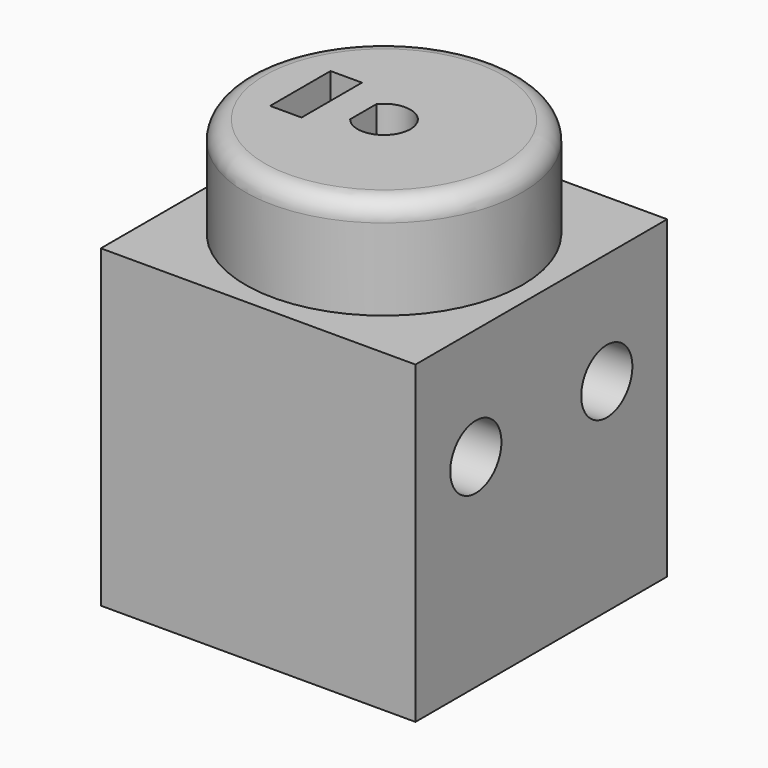
from build123d import *

# Parameters (mm, degrees)
F0_W      = 24.9936
F0_H      = 24.9936
F1_DEPTH  = 24.9936
F2_R      = 11
F3_DEPTH  = 8
F4_R      = 1.524
F6_DEPTH  = 10
F8_DEPTH  = 6
F9_R      = 1.5875
F10_DEPTH = 11.684
F11_R     = 2.54
F12_DEPTH = 25.4


with BuildPart() as f1:
    # F0 (on Top) → F1 (new body)
    with BuildSketch(Plane.XY):
        Rectangle(F0_W, F0_H)
    extrude(amount=F1_DEPTH)

    # F2 (on face) → F3 (join)
    with BuildSketch(Plane.XY.offset(24.9936)):
        Circle(F2_R)
        Circle(F2_R)
    extrude(amount=F3_DEPTH)

    # F4
    f4_edges = [f1.edges().sort_by_distance(p)[0] for p in [
        (-11, 0, 32.9936),
    ]]
    fillet(f4_edges, radius=F4_R)

    # F5 (on face) → F6 (cut)
    with BuildSketch(Plane.XY.offset(32.9936)):
        with BuildLine():
            Line((-1.65, 0), (-1.65, -1.299038))
            ThreePointArc((-1.65, -1.299038), (0.687386, -1.984313), (2.1, 0))
            Line((2.1, 0), (-1.65, 0))
        make_face()
        with BuildLine():
            Line((-1.65, 0), (2.1, 0))
            ThreePointArc((2.1, 0), (0.687386, 1.984313), (-1.65, 1.299038))
            Line((-1.65, 1.299038), (-1.65, 0))
        make_face()
    extrude(amount=-F6_DEPTH, mode=Mode.SUBTRACT)

    # F7 (on face) → F8 (cut)
    with BuildSketch(Plane.XY.offset(32.9936)):
        Polygon((-4.15, 0), (-4.15, 3), (-6.65, 3), (-6.65, -3), (-4.15, -3), align=None)
    extrude(amount=-F8_DEPTH, mode=Mode.SUBTRACT)

    # F9 (on face) → F10 (cut)
    with BuildSketch(Plane(origin=(-12.4968, 0, 0), x_dir=(0, -1, 0), z_dir=(-1, 0, 0))):
        with Locations((0, 28.492712)):
            Circle(F9_R)
    extrude(amount=-F10_DEPTH, mode=Mode.SUBTRACT)

    # F11 (on face) → F12 (cut)
    with BuildSketch(Plane.YZ.offset(12.4968)):
        with Locations((-6.5024, 16.1036)):
            Circle(F11_R)
        with Locations((6.5024, 16.1036)):
            Circle(F11_R)
    extrude(amount=-F12_DEPTH, mode=Mode.SUBTRACT)


solid = f1.part
